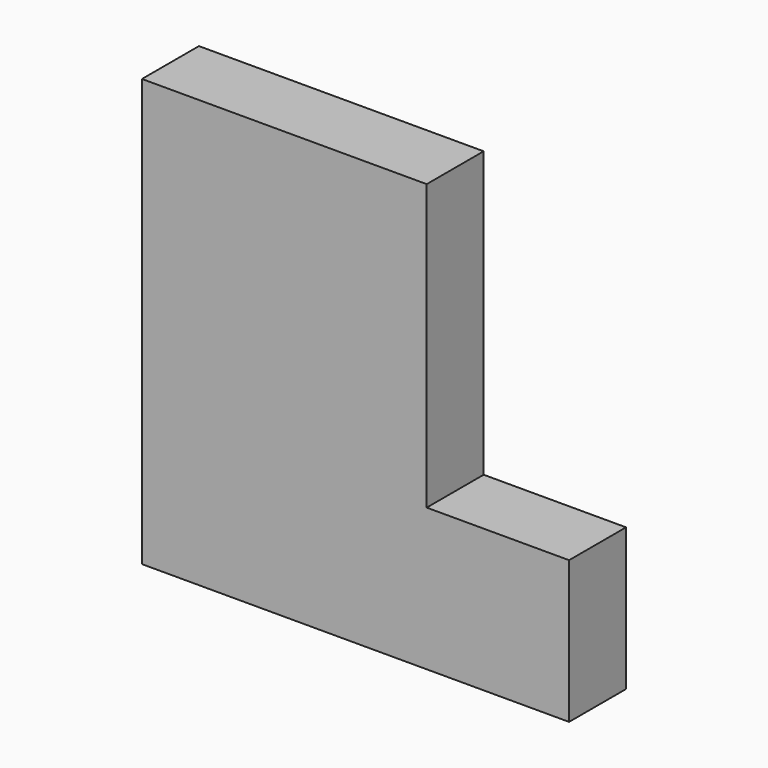
from build123d import *

# Parameters (mm, degrees)
PAD_DEPTH = 500


with BuildPart() as part:
    # Sketch → Pad (new body)
    with BuildSketch(Plane.XZ):
        Polygon((0, 0), (3000, 0), (3000, 1000), (2000, 1000), (2000, 3000), (0, 3000), align=None)
    extrude(amount=PAD_DEPTH)


solid = part.part
